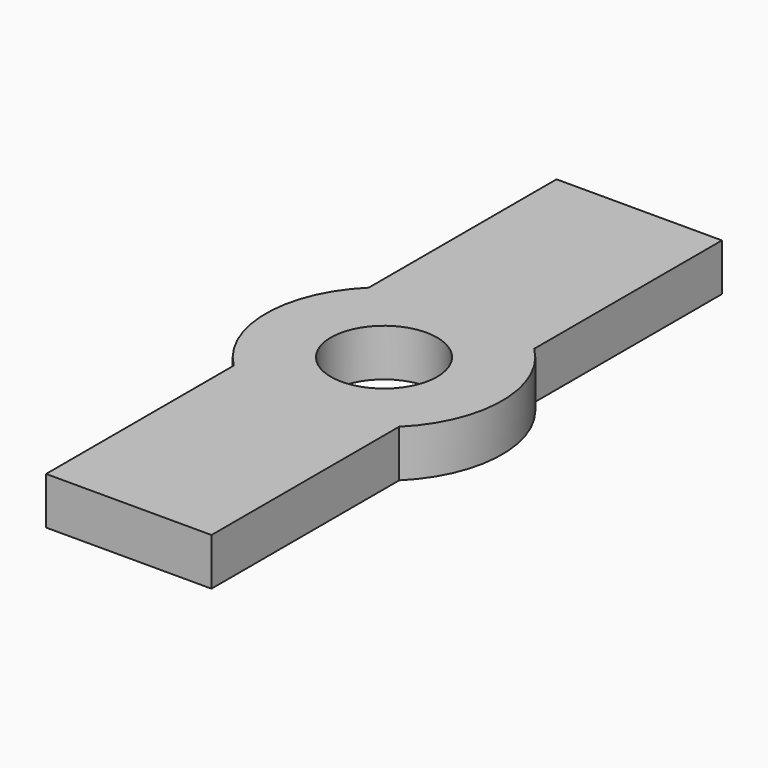
from build123d import *

# Parameters (mm, degrees)
SKETCH_W        = 3.5
SKETCH_H        = 13.5
PAD_DEPTH       = 0.8
SKETCH003_R     = 2.5
PAD001_DEPTH    = 0.8
SKETCH002_W     = 1
SKETCH002_H     = 3.95
POCKET_DEPTH    = 1.2
SKETCH001_R     = 1.125
POCKET001_DEPTH = 5
SKETCH004_W     = 3.5
SKETCH004_H     = 13.5
PAD002_DEPTH    = 0.2
SKETCH005_R     = 2.5
PAD003_DEPTH    = 0.2
SKETCH006_R     = 1.125
POCKET002_DEPTH = 5


with BuildPart() as part:
    # Sketch → Pad (new body)
    with BuildSketch(Plane.XY):
        Rectangle(SKETCH_W, SKETCH_H)
    extrude(amount=PAD_DEPTH)

    # Sketch003 (on Face6 of Pad) → Pad001 (join)
    with BuildSketch(Plane.XY.offset(0.8)):
        Circle(SKETCH003_R)
    extrude(amount=-PAD001_DEPTH)

    # Sketch002 → Pocket (cut)
    with BuildSketch(Plane.XY.offset(1.3)):
        with Locations((0, 3.975)):
            Rectangle(SKETCH002_W, SKETCH002_H)
        with Locations((0, -3.975)):
            Rectangle(SKETCH002_W, SKETCH002_H)
    extrude(amount=-POCKET_DEPTH, mode=Mode.SUBTRACT)

    # Sketch001 (on Face6 of Pad) → Pocket001 (cut)
    with BuildSketch(Plane.XY.offset(0.8)):
        Circle(SKETCH001_R)
    extrude(amount=-POCKET001_DEPTH, mode=Mode.SUBTRACT)

    # Sketch004 (on Face5 of Pocket001) → Pad002 (join)
    with BuildSketch(Plane.XY.offset(0.8)):
        Rectangle(SKETCH004_W, SKETCH004_H)
    extrude(amount=PAD002_DEPTH)

    # Sketch005 (on Face16 of Pad002) → Pad003 (join)
    with BuildSketch(Plane.XY.offset(0.8)):
        Circle(SKETCH005_R)
    extrude(amount=PAD003_DEPTH)

    # Sketch006 (on Face28 of Pad003) → Pocket002 (cut)
    with BuildSketch(Plane.XY.offset(1)):
        Circle(SKETCH006_R)
    extrude(amount=-POCKET002_DEPTH, mode=Mode.SUBTRACT)


solid = part.part
